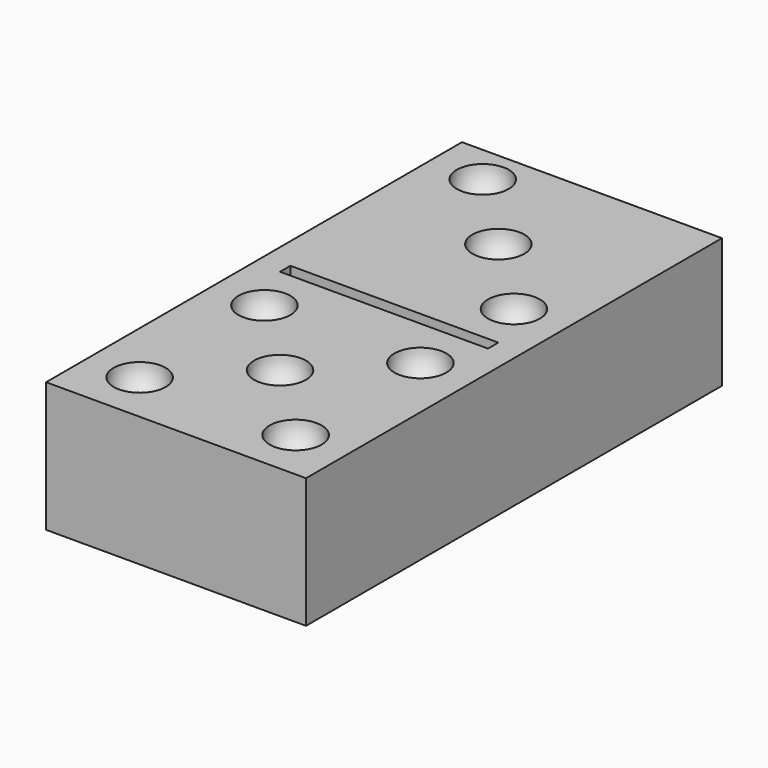
from build123d import *

# Parameters (mm, degrees)
ARRAY_X_COUNT    = 3
ARRAY_X_PITCH    = 8.485281
ARRAY001_X_COUNT = 2
ARRAY001_X_PITCH = 12
ARRAY001_Y_COUNT = 2
ARRAY001_Y_PITCH = 12
BOX001_W         = 16
BOX001_H         = 1
BOX001_DEPTH     = 4
BOX_W            = 20
BOX_H            = 40
BOX_DEPTH        = 10


with BuildPart() as numero3:
    # Sphere → Sphere (revolve)
    with BuildSketch(Plane(origin=(4, 37, 10), x_dir=(1, 0, 0), z_dir=(0, -1, 0))):
        with BuildLine():
            ThreePointArc((0, -2), (2, 0), (0, 2))
            Line((0, 2), (0, -2))
        make_face()
    revolve(axis=Axis((4, 37, 10), (0, 0, 1)))

    # Array X: numero3 ×3


with BuildPart() as numero3_1:
    add(numero3.part)
    with Locations(*[Vector(0.707107, -0.707107, 0) * (i * ARRAY_X_PITCH) for i in range(1, ARRAY_X_COUNT)]):
        add(numero3.part)


with BuildPart() as array001:
    # Sphere001 → Sphere001 (revolve)
    with BuildSketch(Plane.XZ):
        with BuildLine():
            ThreePointArc((0, -2), (2, 0), (0, 2))
            Line((0, 2), (0, -2))
        make_face()
    revolve(axis=Axis((0, 0, 0), (0, 0, 1)))

    # Array001 X: Array001 ×2


with BuildPart() as array001_1:
    add(array001.part)
    with Locations(*[(i * ARRAY001_X_PITCH, 0, 0) for i in range(1, ARRAY001_X_COUNT)]):
        add(array001.part)

    # Array001 Y: Array001 ×2


with BuildPart() as array001_2:
    add(array001_1.part)
    with Locations(*[(0, i * ARRAY001_Y_PITCH, 0) for i in range(1, ARRAY001_Y_COUNT)]):
        add(array001_1.part)


with BuildPart() as array001_3:
    # Array001 placement: moved
    add(array001_2.part.moved(Location((4, 4, 10))))


with BuildPart() as sphere002:
    # Sphere002 → Sphere002 (revolve)
    with BuildSketch(Plane(origin=(10, 10, 10), x_dir=(1, 0, 0), z_dir=(0, -1, 0))):
        with BuildLine():
            ThreePointArc((0, -2), (2, 0), (0, 2))
            Line((0, 2), (0, -2))
        make_face()
    revolve(axis=Axis((10, 10, 10), (0, 0, 1)))


with BuildPart() as cube:
    # Box001 → Box001 (new body)
    with BuildSketch(Plane(origin=(2, 20, 7), x_dir=(1, 0, 0), z_dir=(0, 0, 1))):
        with Locations((8, 0.5)):
            Rectangle(BOX001_W, BOX001_H)
    extrude(amount=BOX001_DEPTH)


with BuildPart() as cut003:
    # Box → Box (new body)
    with BuildSketch(Plane.XY):
        with Locations((10, 20)):
            Rectangle(BOX_W, BOX_H)
    extrude(amount=BOX_DEPTH)

    # Cut: cut Cube
    add(cube.part, mode=Mode.SUBTRACT)

    # Cut001: cut Sphere002
    add(sphere002.part, mode=Mode.SUBTRACT)

    # Cut002: cut Array001
    add(array001_3.part, mode=Mode.SUBTRACT)

    # Cut003: cut numero3
    add(numero3_1.part, mode=Mode.SUBTRACT)


solid = cut003.part
